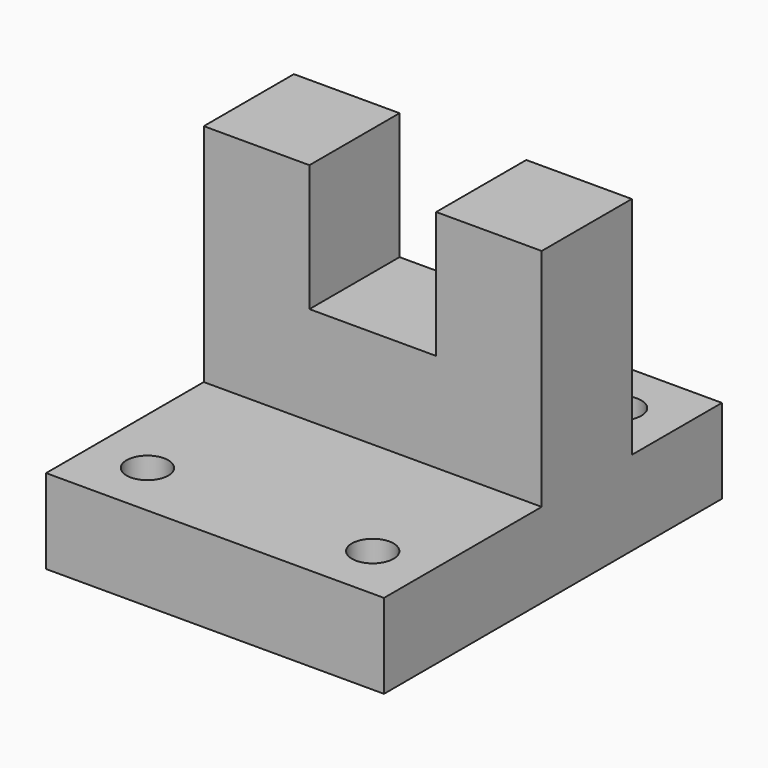
from build123d import *

# Parameters (mm, degrees)
F1_DEPTH = 76.2
F3_DEPTH = 50.801
F5_R     = 4.699
F6_DEPTH = 19.051
F4_R     = 4.699
F7_DEPTH = 19.051


with BuildPart() as f1:
    # F0 (on Right) → F1 (new body)
    with BuildSketch(Plane.YZ):
        Polygon((-31.172728, 19.05), (-31.172728, 0), (64.077272, 0), (64.077272, 19.05), (38.677272, 19.05), (38.677272, 69.85), (13.277272, 69.85), (13.277272, 19.05), align=None)
    extrude(amount=-F1_DEPTH)

    # F2 (on face) → F3 (cut, through all)
    with BuildSketch(Plane.XZ.offset(-13.277272)):
        Polygon((-23.7998, 69.85), (-52.3748, 69.85), (-52.3748, 46.165325), (-52.3748, 41.275), (-23.7998, 41.275), align=None)
    extrude(amount=-F3_DEPTH, mode=Mode.SUBTRACT)

    # F5 (on face) → F6 (cut, through all)
    with BuildSketch(Plane.XY.offset(19.05)):
        with Locations((-63.5, 51.377272)):
            Circle(F5_R)
        with Locations((-12.7, 51.377272)):
            Circle(F5_R)
    extrude(amount=-F6_DEPTH, mode=Mode.SUBTRACT)

    # F4 (on face) → F7 (cut, through all)
    with BuildSketch(Plane.XY.offset(19.05)):
        with Locations((-63.5, -18.472728)):
            Circle(F4_R)
        with Locations((-12.7, -18.472728)):
            Circle(F4_R)
    extrude(amount=-F7_DEPTH, mode=Mode.SUBTRACT)


solid = f1.part
